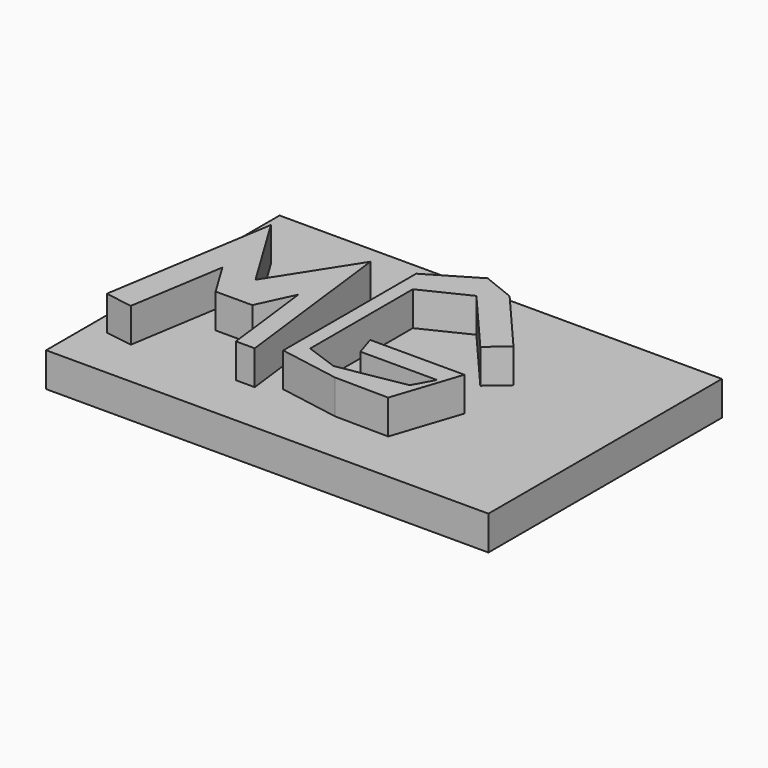
from build123d import *

# Parameters (mm, degrees)
F1_DEPTH = 7.62
F2_W     = 98.518687
F2_H     = 64.999017
F3_DEPTH = 7.62


with BuildPart() as f1:
    # F0 (on Top) → F1 (new body)
    with BuildSketch(Plane.XY):
        Polygon((-61.501313, 38.037542), (-67.622297, 0), (-61.501313, -0.984986), (-58.082975, 20.257542), (-53.340985, 12.439668), (-45.178689, 12.439668), (-41.38951, 20.549016), (-38.870091, 0), (-34.685574, 0), (-39.34918, 38.037542), (-50.716721, 20.257542), align=None)
        Polygon((-16.905574, 39.494921), (-4.372131, 24.921147), (0, 28.681179), (-12.343235, 43.03378), (-19.528853, 45.907374), (-30.313443, 39.494921), (-30.313443, 2.477541), (-16.905574, 0.145738), (-4.955082, 0), (0, 15.010984), (-2.477541, 10.493115), (-4.955082, 5.975246), (-19.820329, 3.351967), (-27.107213, 5.975246), (-27.107213, 21.714916), (-27.107213, 34.539837), align=None)
        Polygon((-19.528853, 10.493115), (-2.477541, 10.493115), (0, 15.010984), (-20.986229, 15.010984), align=None)
    extrude(amount=F1_DEPTH)


with BuildPart() as f3:
    # F2 (on Top) → F3 (new body)
    with BuildSketch(Plane.XY):
        with Locations((-22.443607, 20.694753)):
            Rectangle(F2_W, F2_H)
    extrude(amount=-F3_DEPTH)


solid = Compound([f1.part, f3.part])
